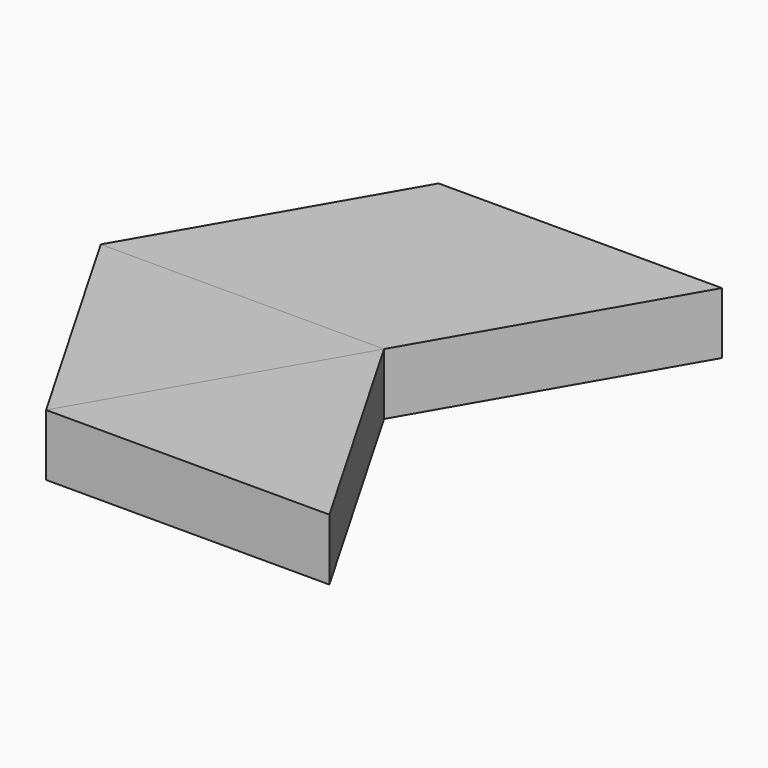
from build123d import *

# Parameters (mm, degrees)
F1_DEPTH = 5
F2_DEPTH = 5
F3_DEPTH = 5


with BuildPart() as f1:
    # F0 (on Top) → F1 (new body)
    with BuildSketch(Plane.XY):
        Polygon((23, -26.558112), (11.5, -6.639528), (0, -26.558112), align=None)
        Polygon((11.5, -6.639528), (0, 13.279056), (-11.5, -6.639528), align=None)
        Polygon((0, -26.558112), (11.5, -6.639528), (-11.5, -6.639528), align=None)
        Polygon((23, 13.279056), (0, 13.279056), (11.5, -6.639528), align=None)
    extrude(amount=F1_DEPTH)


with BuildPart() as f2:
    # F0 (on Top) → F2 (new body)
    with BuildSketch(Plane.XY):
        Polygon((23, -26.558112), (11.5, -6.639528), (0, -26.558112), align=None)
        Polygon((0, -26.558112), (11.5, -6.639528), (-11.5, -6.639528), align=None)
    extrude(amount=F2_DEPTH)


with BuildPart() as f3:
    # F0 (on Top) → F3 (new body)
    with BuildSketch(Plane.XY):
        Polygon((0, -26.558112), (11.5, -6.639528), (-11.5, -6.639528), align=None)
    extrude(amount=F3_DEPTH)


solid = Compound([f1.part, f2.part, f3.part])
